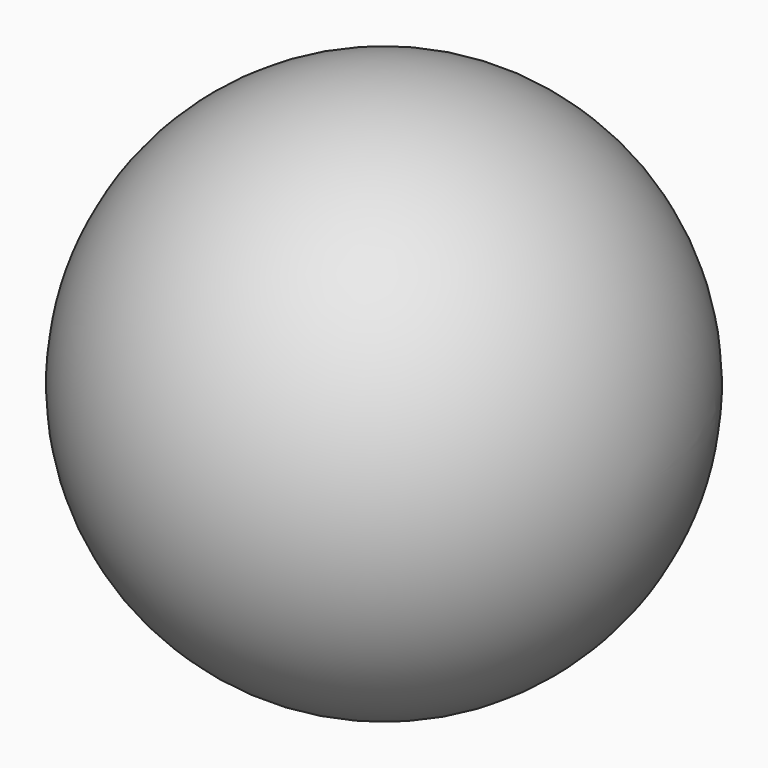
from build123d import *


with BuildPart() as part:
    # Sketch (on XY_Plane of Origin) → Revolution (revolve)
    with BuildSketch(Plane.XY):
        with BuildLine():
            ThreePointArc((0.5, 0), (0, 0.5), (-0.5, 0))
            Line((-0.5, 0), (0.5, 0))
        make_face()
    revolve(axis=Axis((0, 0, 0), (1, 0, 0)))


solid = part.part
